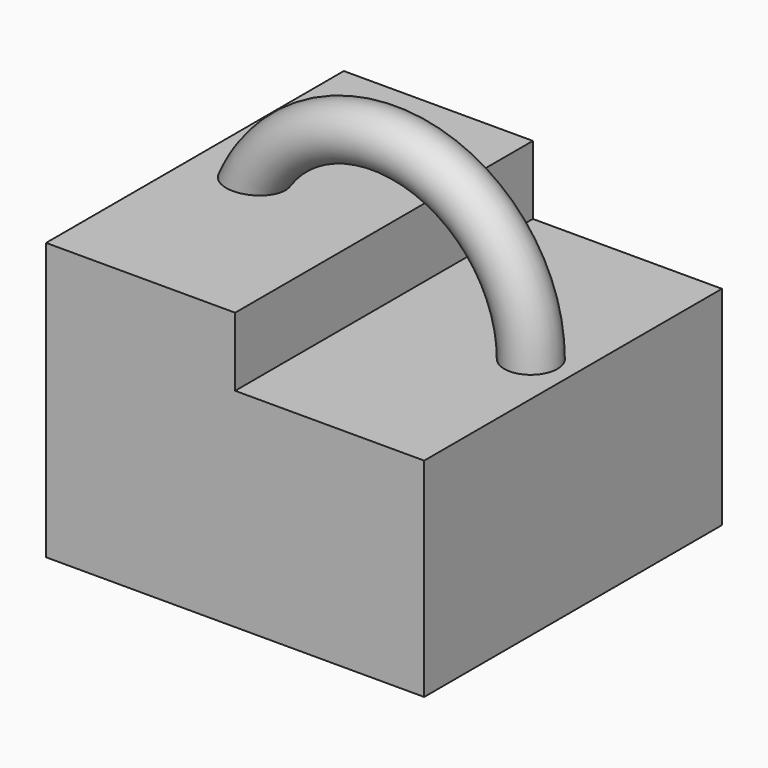
from build123d import *

# Parameters (mm, degrees)
F0_W      = 69.863096
F0_H      = 137.526572
F2_DEPTH  = 76.89179
F1_R      = 9.824635
F4_DEPTH  = 25.4
F4_FACE_W = 69.863096
F4_FACE_H = 137.526572
F5_DEPTH  = 25.4
F6_DEPTH  = 25.4


with BuildPart() as f2:
    # F0 (on Top) → F2 (new body)
    with BuildSketch(Plane.XY):
        with Locations((-34.931548, 0)):
            Rectangle(F0_W, F0_H)
        with Locations((34.931548, 0)):
            Rectangle(F0_W, F0_H)
    extrude(amount=-F2_DEPTH)

    # F1 (on Top) → F3 (revolve)
    with BuildSketch(Plane.XY):
        with Locations((54.264009, 0)):
            Circle(F1_R)
    revolve(axis=Axis((0, 0, 0), (0, -1, 0)))

    # F0 (on Top) → F4 (join)
    with BuildSketch(Plane.XY):
        with Locations((-34.931548, 0)):
            Rectangle(F0_W, F0_H)
    extrude(amount=F4_DEPTH)

    # F4_face (on face) → F5 (join)
    with BuildSketch(Plane(origin=(-34.455236, 0, 25.4), x_dir=(1, 0, 0), z_dir=(0, 0, 1))):
        with Locations((-0.476312, 0)):
            Rectangle(F4_FACE_W, F4_FACE_H)
        with BuildLine():
            add(Edge.make_bspline(
                [(-24.385178, 0), (-24.385178, 0.668247), (-24.32577, 1.336628), (-24.206912, 1.99823), (-24.030098, 2.646689), (-23.797825, 3.276099), (-23.37971, 4.166697), (-23.234065, 4.446908), (-23.077242, 4.721166), (-22.909651, 4.98898), (-22.731734, 5.249905), (-22.229971, 5.927648), (-21.88841, 6.331385), (-21.521456, 6.712873), (-21.131426, 7.070663), (-20.720671, 7.403639), (-19.847998, 8.028648), (-19.384812, 8.318937), (-18.904547, 8.580964), (-18.409705, 8.814186), (-17.902695, 9.018322), (-17.050434, 9.306791), (-16.710914, 9.40802), (-16.367843, 9.496945), (-16.02182, 9.573576), (-15.673419, 9.637946), (-14.585966, 9.79991), (-13.840719, 9.855608), (-13.09247, 9.857734), (-12.345999, 9.807078), (-11.605852, 9.704627), (-10.339404, 9.438416), (-9.80827, 9.297984), (-9.284679, 9.130358), (-8.770428, 8.935906), (-8.267378, 8.715014), (-7.592089, 8.374585), (-7.408591, 8.277395), (-7.227085, 8.176494), (-7.047683, 8.071901), (-6.870499, 7.963641), (-6.45624, 7.69851), (-6.221211, 7.538453), (-5.990868, 7.371624), (-5.765532, 7.198092), (-5.545543, 7.017935), (-5.03891, 6.576543), (-4.757184, 6.309683), (-4.486982, 6.030895), (-4.229294, 5.740472), (-3.985174, 5.4388), (-3.558839, 4.858328), (-3.372758, 4.582367), (-3.198165, 4.298826), (-3.035779, 4.008107), (-2.886315, 3.710707), (-2.67324, 3.234777), (-2.600421, 3.060357), (-2.532119, 2.88409), (-2.468453, 2.706097), (-2.409533, 2.526514), (-2.243048, 1.969131), (-2.15158, 1.586498), (-2.081997, 1.19897), (-2.03498, 0.808045), (-2.01092, 0.415339), (-2.008697, -0.377657), (-2.031422, -0.778015), (-2.078012, -1.17662), (-2.148069, -1.571759), (-2.240876, -1.961843), (-2.409505, -2.526425), (-2.46842, -2.706002), (-2.532082, -2.883988), (-2.600379, -3.060249), (-2.673192, -3.234663), (-2.88625, -3.710575), (-3.035702, -4.007963), (-3.198075, -4.298671), (-3.372655, -4.582202), (-3.55872, -4.858153), (-3.985022, -5.438608), (-4.229123, -5.740271), (-4.486791, -6.030687), (-4.756973, -6.30947), (-5.038678, -6.576325), (-5.545277, -7.017715), (-5.765253, -7.197872), (-5.990575, -7.371405), (-6.220906, -7.538235), (-6.455921, -7.698295), (-6.87016, -7.963432), (-7.047336, -8.071696), (-7.226731, -8.176292), (-7.40823, -8.277198), (-7.591721, -8.374391), (-8.266995, -8.714841), (-8.770037, -8.93575), (-9.284281, -9.130219), (-9.807866, -9.297862), (-10.338996, -9.438312), (-11.605451, -9.704568), (-12.345612, -9.807044), (-13.092098, -9.857724), (-13.840364, -9.85562), (-14.58563, -9.799941), (-15.673115, -9.638001), (-16.021528, -9.573637), (-16.367564, -9.497013), (-16.710646, -9.408093), (-17.050179, -9.306869), (-17.902472, -9.018411), (-18.4095, -8.814279), (-18.90436, -8.58106), (-19.384645, -8.319034), (-19.847849, -8.028745), (-20.720553, -7.403734), (-21.131321, -7.070757), (-21.521364, -6.712964), (-21.888331, -6.331472), (-22.229903, -5.927731), (-22.731682, -5.249979), (-22.909604, -4.989052), (-23.0772, -4.721236), (-23.234028, -4.446976), (-23.379677, -4.166762), (-23.797805, -3.276152), (-24.030086, -2.646733), (-24.206906, -1.998264), (-24.325768, -1.336651), (-24.385178, -0.668258), (-24.385178, 0)],
                knots=[0, 0, 0, 0, 0, 0, 0, 0.060752, 0.060752, 0.060752, 0.060752, 0.060752, 0.089435, 0.089435, 0.089435, 0.089435, 0.089435, 0.137395, 0.137395, 0.137395, 0.137395, 0.137395, 0.186967, 0.186967, 0.186967, 0.186967, 0.186967, 0.219128, 0.219128, 0.219128, 0.219128, 0.219128, 0.286825, 0.286825, 0.286825, 0.286825, 0.286825, 0.336655, 0.336655, 0.336655, 0.336655, 0.336655, 0.355511, 0.355511, 0.355511, 0.355511, 0.355511, 0.381329, 0.381329, 0.381329, 0.381329, 0.381329, 0.416554, 0.416554, 0.416554, 0.416554, 0.416554, 0.446776, 0.446776, 0.446776, 0.446776, 0.446776, 0.463951, 0.463951, 0.463951, 0.463951, 0.463951, 0.499657, 0.499657, 0.499657, 0.499657, 0.499657, 0.536048, 0.536048, 0.536048, 0.536048, 0.536048, 0.553222, 0.553222, 0.553222, 0.553222, 0.553222, 0.583442, 0.583442, 0.583442, 0.583442, 0.583442, 0.618665, 0.618665, 0.618665, 0.618665, 0.618665, 0.644483, 0.644483, 0.644483, 0.644483, 0.644483, 0.663338, 0.663338, 0.663338, 0.663338, 0.663338, 0.713168, 0.713168, 0.713168, 0.713168, 0.713168, 0.780867, 0.780867, 0.780867, 0.780867, 0.780867, 0.813029, 0.813029, 0.813029, 0.813029, 0.813029, 0.862602, 0.862602, 0.862602, 0.862602, 0.862602, 0.910564, 0.910564, 0.910564, 0.910564, 0.910564, 0.939247, 0.939247, 0.939247, 0.939247, 0.939247, 1, 1, 1, 1, 1, 1, 1], degree=6))
        make_face(mode=Mode.SUBTRACT)
    extrude(amount=-F5_DEPTH)

    # F4_face (on face) → F6 (join)
    with BuildSketch(Plane(origin=(-34.455236, 0, 25.4), x_dir=(1, 0, 0), z_dir=(0, 0, 1))):
        with Locations((-0.476312, 0)):
            Rectangle(F4_FACE_W, F4_FACE_H)
        with BuildLine():
            add(Edge.make_bspline(
                [(-24.385178, 0), (-24.385178, 0.668247), (-24.32577, 1.336628), (-24.206912, 1.99823), (-24.030098, 2.646689), (-23.797825, 3.276099), (-23.37971, 4.166697), (-23.234065, 4.446908), (-23.077242, 4.721166), (-22.909651, 4.98898), (-22.731734, 5.249905), (-22.229971, 5.927648), (-21.88841, 6.331385), (-21.521456, 6.712873), (-21.131426, 7.070663), (-20.720671, 7.403639), (-19.847998, 8.028648), (-19.384812, 8.318937), (-18.904547, 8.580964), (-18.409705, 8.814186), (-17.902695, 9.018322), (-17.050434, 9.306791), (-16.710914, 9.40802), (-16.367843, 9.496945), (-16.02182, 9.573576), (-15.673419, 9.637946), (-14.585966, 9.79991), (-13.840719, 9.855608), (-13.09247, 9.857734), (-12.345999, 9.807078), (-11.605852, 9.704627), (-10.339404, 9.438416), (-9.80827, 9.297984), (-9.284679, 9.130358), (-8.770428, 8.935906), (-8.267378, 8.715014), (-7.592089, 8.374585), (-7.408591, 8.277395), (-7.227085, 8.176494), (-7.047683, 8.071901), (-6.870499, 7.963641), (-6.45624, 7.69851), (-6.221211, 7.538453), (-5.990868, 7.371624), (-5.765532, 7.198092), (-5.545543, 7.017935), (-5.03891, 6.576543), (-4.757184, 6.309683), (-4.486982, 6.030895), (-4.229294, 5.740472), (-3.985174, 5.4388), (-3.558839, 4.858328), (-3.372758, 4.582367), (-3.198165, 4.298826), (-3.035779, 4.008107), (-2.886315, 3.710707), (-2.67324, 3.234777), (-2.600421, 3.060357), (-2.532119, 2.88409), (-2.468453, 2.706097), (-2.409533, 2.526514), (-2.243048, 1.969131), (-2.15158, 1.586498), (-2.081997, 1.19897), (-2.03498, 0.808045), (-2.01092, 0.415339), (-2.008697, -0.377657), (-2.031422, -0.778015), (-2.078012, -1.17662), (-2.148069, -1.571759), (-2.240876, -1.961843), (-2.409505, -2.526425), (-2.46842, -2.706002), (-2.532082, -2.883988), (-2.600379, -3.060249), (-2.673192, -3.234663), (-2.88625, -3.710575), (-3.035702, -4.007963), (-3.198075, -4.298671), (-3.372655, -4.582202), (-3.55872, -4.858153), (-3.985022, -5.438608), (-4.229123, -5.740271), (-4.486791, -6.030687), (-4.756973, -6.30947), (-5.038678, -6.576325), (-5.545277, -7.017715), (-5.765253, -7.197872), (-5.990575, -7.371405), (-6.220906, -7.538235), (-6.455921, -7.698295), (-6.87016, -7.963432), (-7.047336, -8.071696), (-7.226731, -8.176292), (-7.40823, -8.277198), (-7.591721, -8.374391), (-8.266995, -8.714841), (-8.770037, -8.93575), (-9.284281, -9.130219), (-9.807866, -9.297862), (-10.338996, -9.438312), (-11.605451, -9.704568), (-12.345612, -9.807044), (-13.092098, -9.857724), (-13.840364, -9.85562), (-14.58563, -9.799941), (-15.673115, -9.638001), (-16.021528, -9.573637), (-16.367564, -9.497013), (-16.710646, -9.408093), (-17.050179, -9.306869), (-17.902472, -9.018411), (-18.4095, -8.814279), (-18.90436, -8.58106), (-19.384645, -8.319034), (-19.847849, -8.028745), (-20.720553, -7.403734), (-21.131321, -7.070757), (-21.521364, -6.712964), (-21.888331, -6.331472), (-22.229903, -5.927731), (-22.731682, -5.249979), (-22.909604, -4.989052), (-23.0772, -4.721236), (-23.234028, -4.446976), (-23.379677, -4.166762), (-23.797805, -3.276152), (-24.030086, -2.646733), (-24.206906, -1.998264), (-24.325768, -1.336651), (-24.385178, -0.668258), (-24.385178, 0)],
                knots=[0, 0, 0, 0, 0, 0, 0, 0.060752, 0.060752, 0.060752, 0.060752, 0.060752, 0.089435, 0.089435, 0.089435, 0.089435, 0.089435, 0.137395, 0.137395, 0.137395, 0.137395, 0.137395, 0.186967, 0.186967, 0.186967, 0.186967, 0.186967, 0.219128, 0.219128, 0.219128, 0.219128, 0.219128, 0.286825, 0.286825, 0.286825, 0.286825, 0.286825, 0.336655, 0.336655, 0.336655, 0.336655, 0.336655, 0.355511, 0.355511, 0.355511, 0.355511, 0.355511, 0.381329, 0.381329, 0.381329, 0.381329, 0.381329, 0.416554, 0.416554, 0.416554, 0.416554, 0.416554, 0.446776, 0.446776, 0.446776, 0.446776, 0.446776, 0.463951, 0.463951, 0.463951, 0.463951, 0.463951, 0.499657, 0.499657, 0.499657, 0.499657, 0.499657, 0.536048, 0.536048, 0.536048, 0.536048, 0.536048, 0.553222, 0.553222, 0.553222, 0.553222, 0.553222, 0.583442, 0.583442, 0.583442, 0.583442, 0.583442, 0.618665, 0.618665, 0.618665, 0.618665, 0.618665, 0.644483, 0.644483, 0.644483, 0.644483, 0.644483, 0.663338, 0.663338, 0.663338, 0.663338, 0.663338, 0.713168, 0.713168, 0.713168, 0.713168, 0.713168, 0.780867, 0.780867, 0.780867, 0.780867, 0.780867, 0.813029, 0.813029, 0.813029, 0.813029, 0.813029, 0.862602, 0.862602, 0.862602, 0.862602, 0.862602, 0.910564, 0.910564, 0.910564, 0.910564, 0.910564, 0.939247, 0.939247, 0.939247, 0.939247, 0.939247, 1, 1, 1, 1, 1, 1, 1], degree=6))
        make_face(mode=Mode.SUBTRACT)
    extrude(amount=-F6_DEPTH)


solid = f2.part
